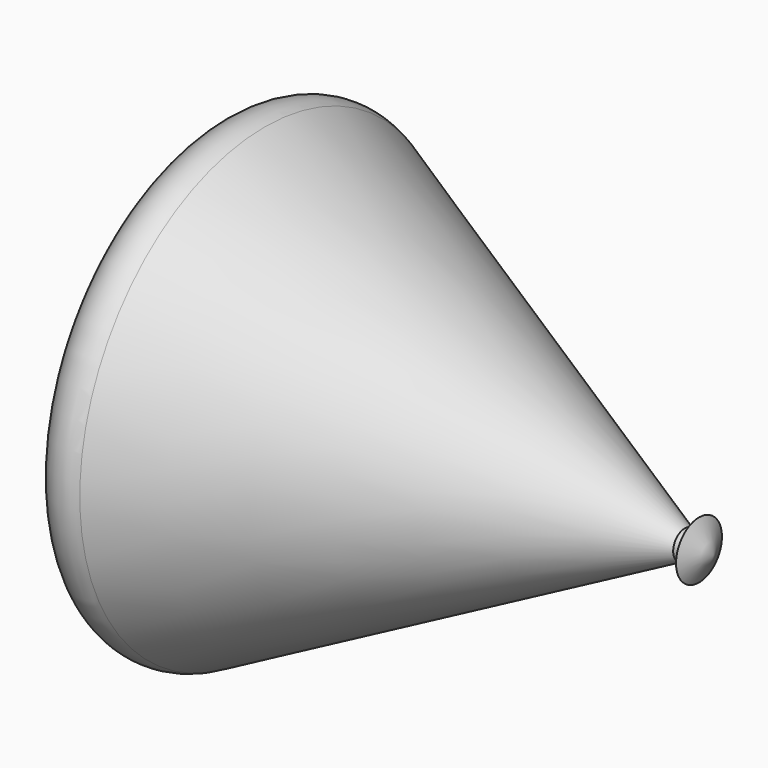
from build123d import *


with BuildPart() as f1:
    # F0 (on Front) → F1 (revolve)
    with BuildSketch(Plane.XZ):
        with BuildLine():
            Line((0, 50), (0, 0))
            Line((0, 0), (15, 0))
            Line((15, 0), (155, 0))
            Line((155, 0), (178.1, 0))
            Line((178.1, 0), (183.1, 0))
            Line((183.1, 0), (188.1, 0))
            Line((188.1, 0), (183.1, 10))
            Line((183.1, 10), (183.1, 5))
            Line((183.1, 5), (178.1, 5))
            Line((178.1, 5), (31.793766, 80.659656))
            ThreePointArc((31.793766, 80.659656), (20.524521, 80.267839), (15, 70.43783))
            Line((15, 70.43783), (15, 50))
            Line((15, 50), (0, 50))
        make_face()
    revolve(axis=Axis((85, 0, 0), (1, 0, 0)))


solid = f1.part
